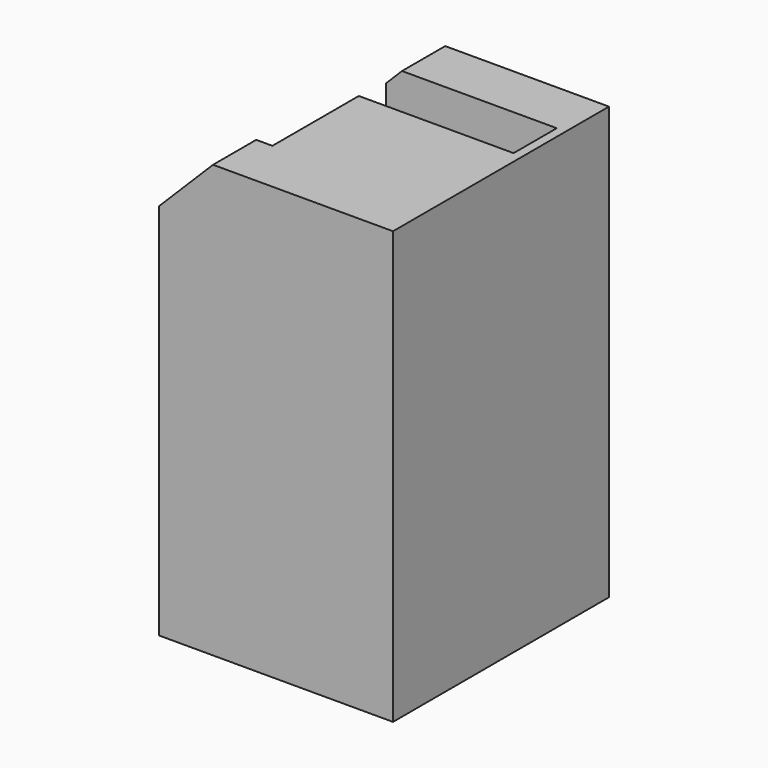
from build123d import *

# Parameters (mm, degrees)
BOX008_W        = 10
BOX008_H        = 15
BOX008_DEPTH    = 3
BOX009_W        = 4
BOX009_H        = 3
BOX009_DEPTH    = 24
CHAMFER_SIZE    = 3
BOX001_W        = 0.5
BOX001_H        = 15
BOX001_DEPTH    = 24
BOX003_W        = 10
BOX003_H        = 3
BOX003_DEPTH    = 24
CHAMFER001_SIZE = 0.9
BOX_W           = 10
BOX_H           = 3
BOX_DEPTH       = 20
BOX005_W        = 10
BOX005_H        = 9
BOX005_DEPTH    = 24
CHAMFER002_SIZE = 0.9


with BuildPart() as cube006:
    # Box008 → Box008 (new body)
    with BuildSketch(Plane(origin=(0, -6, 0), x_dir=(1, 0, 0), z_dir=(0, 0, 1))):
        with Locations((5, 7.5)):
            Rectangle(BOX008_W, BOX008_H)
    extrude(amount=BOX008_DEPTH)


with BuildPart() as chamfer_body:
    # Box009 → Box009 (new body)
    with BuildSketch(Plane(origin=(-3, -6, 0), x_dir=(1, 0, 0), z_dir=(0, 0, 1))):
        with Locations((2, 1.5)):
            Rectangle(BOX009_W, BOX009_H)
    extrude(amount=BOX009_DEPTH)

    # Chamfer
    chamfer_edges = [chamfer_body.edges().sort_by_distance(p)[0] for p in [
        (-3, -4.5, 24),
    ]]
    chamfer(chamfer_edges, length=CHAMFER_SIZE)


with BuildPart() as cube:
    # Box001 → Box001 (new body)
    with BuildSketch(Plane(origin=(9.5, -6, 0), x_dir=(1, 0, 0), z_dir=(0, 0, 1))):
        with Locations((0.25, 7.5)):
            Rectangle(BOX001_W, BOX001_H)
    extrude(amount=BOX001_DEPTH)


with BuildPart() as chamfer001:
    # Box003 → Box003 (new body)
    with BuildSketch(Plane(origin=(0, 6, 0), x_dir=(1, 0, 0), z_dir=(0, 0, 1))):
        with Locations((5, 1.5)):
            Rectangle(BOX003_W, BOX003_H)
    extrude(amount=BOX003_DEPTH)

    # Chamfer001
    chamfer001_edges = [chamfer001.edges().sort_by_distance(p)[0] for p in [
        (0, 7.5, 24),
    ]]
    chamfer(chamfer001_edges, length=CHAMFER001_SIZE)


with BuildPart() as magnet:
    # Box → Box (new body)
    with BuildSketch(Plane(origin=(0, -3, 3), x_dir=(1, 0, 0), z_dir=(0, 0, 1))):
        with Locations((5, 1.5)):
            Rectangle(BOX_W, BOX_H)
    extrude(amount=BOX_DEPTH)


with BuildPart() as fusion:
    # Box005 → Box005 (new body)
    with BuildSketch(Plane(origin=(0, -6, 0), x_dir=(1, 0, 0), z_dir=(0, 0, 1))):
        with Locations((5, 4.5)):
            Rectangle(BOX005_W, BOX005_H)
    extrude(amount=BOX005_DEPTH)

    # Cut: cut magnet
    add(magnet.part, mode=Mode.SUBTRACT)

    # Chamfer002
    chamfer002_edges = [fusion.edges().sort_by_distance(p)[0] for p in [
        (0, -1.5, 24),
    ]]
    chamfer(chamfer002_edges, length=CHAMFER002_SIZE)

    # Fusion: union Cube006, Chamfer body, Cube, Chamfer001
    add(cube006.part)
    add(chamfer_body.part)
    add(cube.part)
    add(chamfer001.part)


solid = fusion.part
